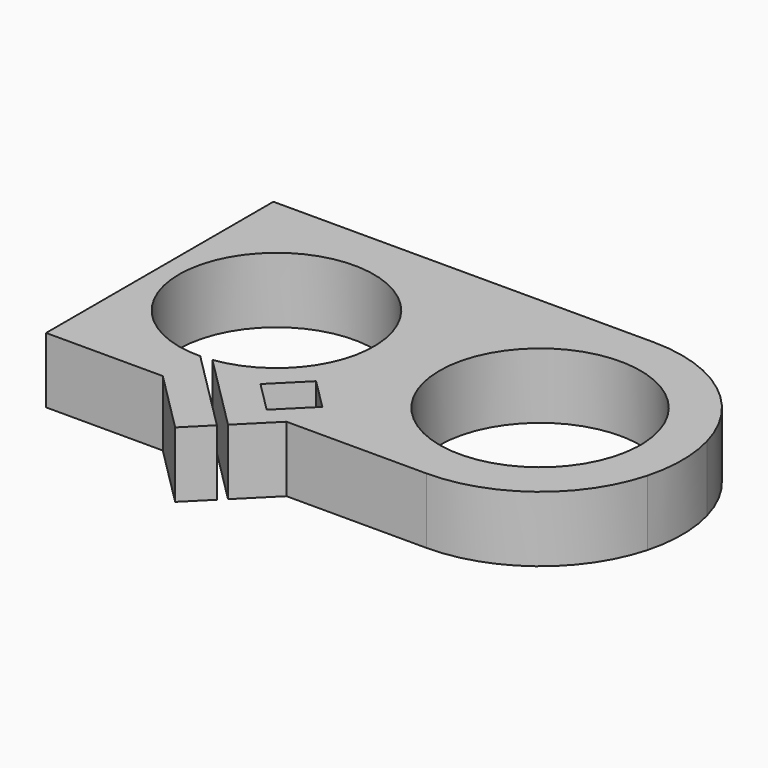
from build123d import *

# Parameters (mm, degrees)
F1_DEPTH = 19.05


with BuildPart() as f1:
    # F0 (on Top) → F1 (new body)
    with BuildSketch(Plane.XY):
        with BuildLine():
            ThreePointArc((95.083343, 10.795), (80.32549, 32.78101), (55.245, 41.275))
            Line((55.245, 41.275), (-55.245, 41.275))
            Line((-55.245, 41.275), (-55.245, -41.275))
            Line((-55.245, -41.275), (-21.336, -41.275))
            Line((-21.336, -41.275), (-7.865616, -41.275))
            Line((-7.865616, -41.275), (-20.82424, -28.316376))
            ThreePointArc((-20.82424, -28.316376), (-23.518744, 28.236761), (-17.489888, -28.058625))
            Line((-17.489888, -28.058625), (-4.273513, -41.275))
            Line((-4.273513, -41.275), (5.155756, -50.704269))
            Line((5.155756, -50.704269), (14.585024, -41.275))
            Line((14.585024, -41.275), (55.245, -41.275))
            ThreePointArc((55.245, -41.275), (80.32549, -32.78101), (95.083343, -10.795))
            ThreePointArc((95.083343, -10.795), (96.52, 0), (95.083343, 10.795))
        make_face()
        Polygon((16.381076, -30.498693), (7.40082, -39.478949), (-1.579437, -30.498693), (7.40082, -21.518437), align=None, mode=Mode.SUBTRACT)
        with BuildLine():
            ThreePointArc((84.427378, -1.27), (26.035, 0), (84.427378, 1.27))
            ThreePointArc((84.427378, 1.27), (84.455, 0), (84.427378, -1.27))
        make_face(mode=Mode.SUBTRACT)
        Polygon((-7.865616, -41.275), (-21.336, -41.275), (-3.375488, -59.235512), (3.359704, -52.50032), align=None)
    extrude(amount=F1_DEPTH)


solid = f1.part
